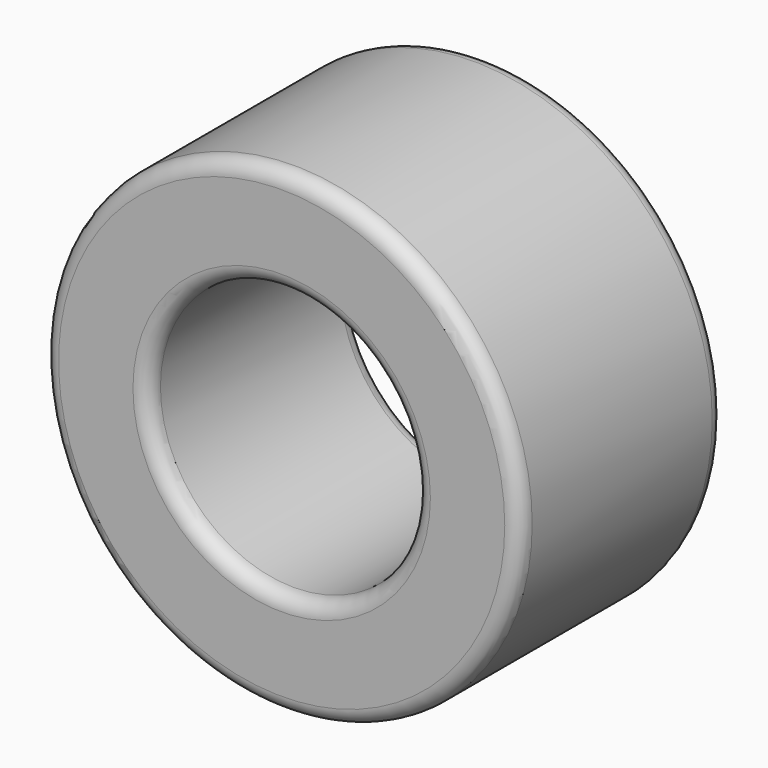
from build123d import *

# Parameters (mm, degrees)
F0_R     = 125
F0_R_2   = 70
F1_DEPTH = 67
F2_R     = 8


with BuildPart() as f1:
    # F0 (on Front) → F1 (new body, symmetric)
    with BuildSketch(Plane.XZ):
        Circle(F0_R)
        Circle(F0_R_2, mode=Mode.SUBTRACT)
    extrude(amount=F1_DEPTH, both=True)

    # F2
    f2_edges = [f1.edges().sort_by_distance(p)[0] for p in [
        (-125, -67, 0),
        (-125, 67, 0),
        (-70, 67, 0),
        (-70, -67, 0),
    ]]
    fillet(f2_edges, radius=F2_R)


solid = f1.part
